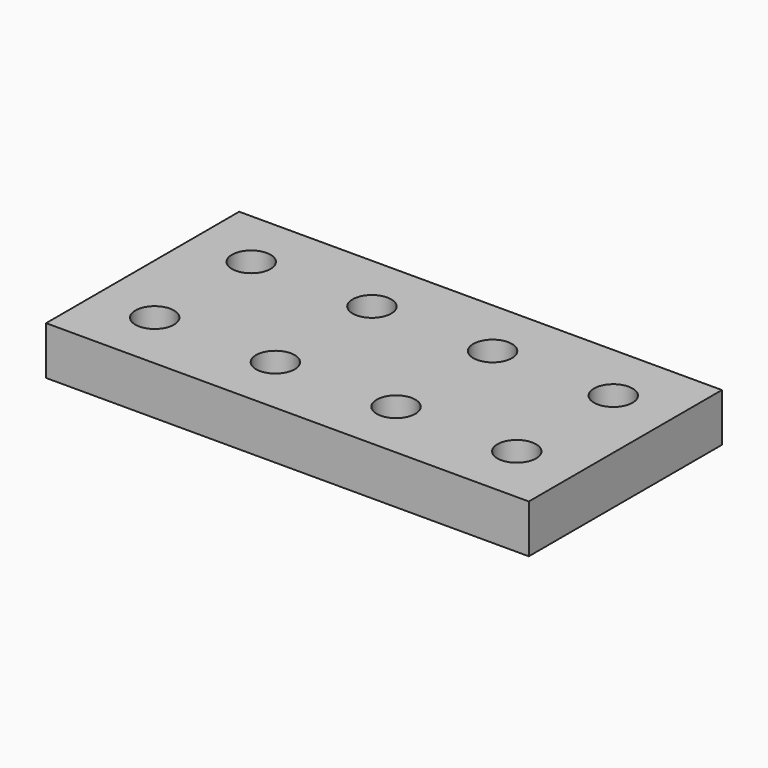
from build123d import *

# Parameters (mm, degrees)
SKETCH_W  = 50
SKETCH_H  = 50
SKETCH_R  = 4
PAD_DEPTH = 10


with BuildPart() as part:
    # Sketch → Pad (new body)
    with BuildSketch(Plane.XY):
        Rectangle(SKETCH_W, SKETCH_H)
        with Locations((12.5, 12.5)):
            Circle(SKETCH_R, mode=Mode.SUBTRACT)
        with Locations((-12.5, 12.5)):
            Circle(SKETCH_R, mode=Mode.SUBTRACT)
        with Locations((12.5, -12.5)):
            Circle(SKETCH_R, mode=Mode.SUBTRACT)
        with Locations((-12.5, -12.5)):
            Circle(SKETCH_R, mode=Mode.SUBTRACT)
    pad = extrude(amount=PAD_DEPTH)

    # Mirrored: Pad across face of Pad
    add(pad.mirror(Plane(origin=(25, 0, 5), x_dir=(0, 1, 0), z_dir=(1, 0, 0))))


solid = part.part
